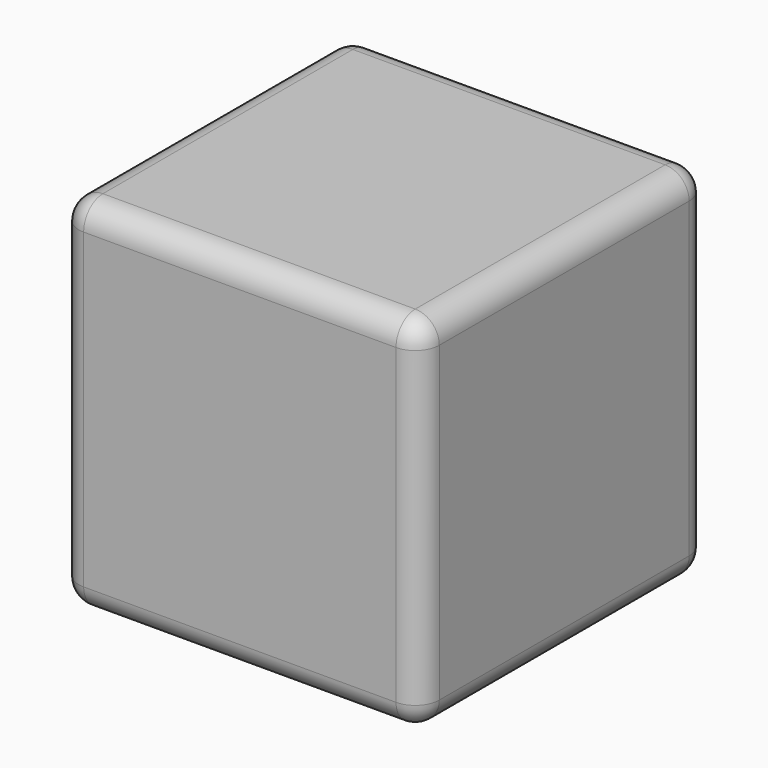
from build123d import *

# Parameters (mm, degrees)
F0_W     = 76.2
F0_H     = 76.2
F1_DEPTH = 76.2
F2_R     = 5.08
F3_R     = 9.525
F4_DEPTH = 19.05
F5_SIZE  = 2.54
F6_R     = 9.525
F7_DEPTH = 19.05
F8_SIZE  = 2.54


with BuildPart() as f1:
    # F0 (on Top) → F1 (new body)
    with BuildSketch(Plane.XY):
        with Locations((0.757823, -1.647639)):
            Rectangle(F0_W, F0_H)
    extrude(amount=F1_DEPTH)

    # F2
    f2_edges = [f1.edges().sort_by_distance(p)[0] for p in [
        (-37.342177, -39.747639, 38.1),
        (38.857823, -39.747639, 38.1),
        (0.757823, -39.747639, 0),
        (0.757823, -39.747639, 76.2),
        (0.757823, 36.452361, 76.2),
        (-37.342177, -1.647639, 76.2),
        (38.857823, -1.647639, 76.2),
        (38.857823, 36.452361, 38.1),
        (38.857823, -1.647639, 0),
        (-37.342177, 36.452361, 38.1),
        (0.757823, 36.452361, 0),
        (-37.342177, -1.647639, 0),
    ]]
    fillet(f2_edges, radius=F2_R)

    # F3 (on face) → F4 (join)
    with BuildSketch(Plane(origin=(0, 36.452361, 0), x_dir=(-1, 0, 0), z_dir=(0, 1, 0))):
        with Locations((0, 38.857823)):
            Circle(F3_R)
    extrude(amount=F4_DEPTH)

    # F5
    f5_edges = [f1.edges().sort_by_distance(p)[0] for p in [
        (9.525, 55.502361, 38.857823),
    ]]
    chamfer(f5_edges, length=F5_SIZE)

    # F6 (on face) → F7 (join)
    with BuildSketch(Plane(origin=(-37.342177, 0, 0), x_dir=(0, -1, 0), z_dir=(-1, 0, 0))):
        with Locations((2.405462, 38.857823)):
            Circle(F6_R)
    extrude(amount=F7_DEPTH)

    # F8
    f8_edges = [f1.edges().sort_by_distance(p)[0] for p in [
        (-56.392177, 7.119538, 38.857823),
    ]]
    chamfer(f8_edges, length=F8_SIZE)


solid = f1.part
